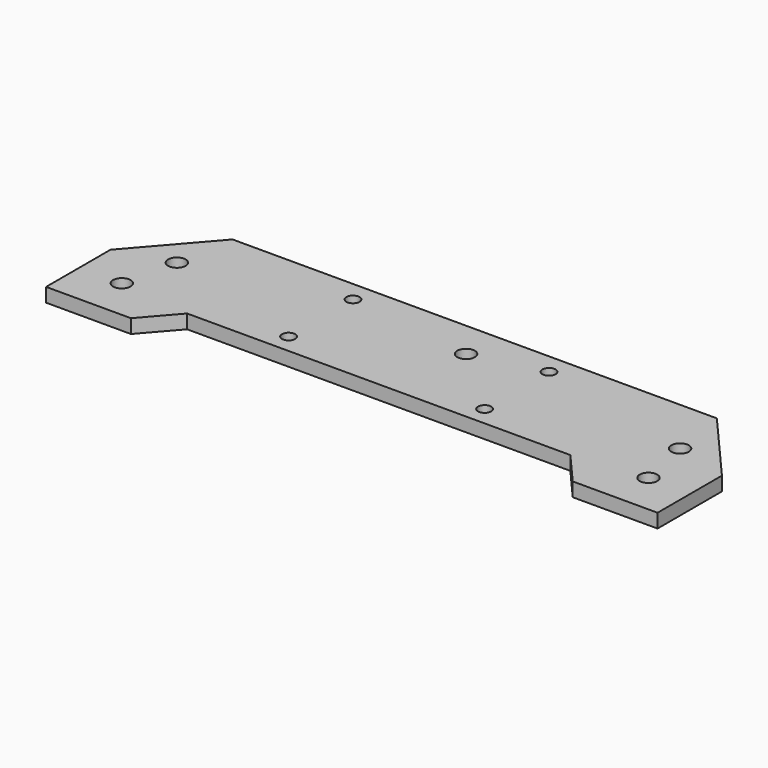
from build123d import *

# Parameters (mm, degrees)
SKETCH_R   = 3
SKETCH_R_2 = 2.25
PAD_DEPTH  = 4.763


with BuildPart() as part:
    # Sketch → Pad (new body)
    with BuildSketch(Plane.XY):
        Polygon((-104.5, 0), (-104.5, 27.5), (-82.767832, 52.5), (82.767832, 52.5), (104.5, 27.5), (104.5, 0), (75.5, 0), (65.503203, 11.5), (-65.503203, 11.5), (-75.5, 0), align=None)
        with Locations((7.25, 39.75)):
            Circle(SKETCH_R, mode=Mode.SUBTRACT)
        with Locations((86, 32.75)):
            Circle(SKETCH_R, mode=Mode.SUBTRACT)
        with Locations((90, 14.25)):
            Circle(SKETCH_R, mode=Mode.SUBTRACT)
        with Locations((-90, 14.25)):
            Circle(SKETCH_R, mode=Mode.SUBTRACT)
        with Locations((-86, 32.75)):
            Circle(SKETCH_R, mode=Mode.SUBTRACT)
        with Locations((-36, 45.5)):
            Circle(SKETCH_R_2, mode=Mode.SUBTRACT)
        with Locations((-36, 18)):
            Circle(SKETCH_R_2, mode=Mode.SUBTRACT)
        with Locations((31, 18)):
            Circle(SKETCH_R_2, mode=Mode.SUBTRACT)
        with Locations((31, 45.5)):
            Circle(SKETCH_R_2, mode=Mode.SUBTRACT)
    extrude(amount=PAD_DEPTH)


solid = part.part
